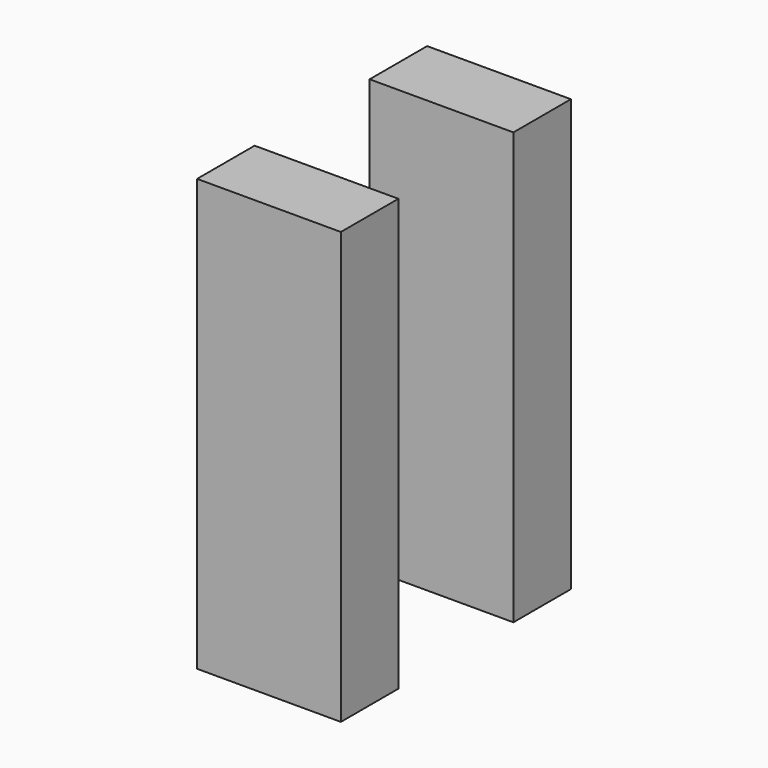
from build123d import *

# Parameters (mm, degrees)
F0_W     = 25.4
F0_H     = 76.2
F1_DEPTH = 50.8
F2_W     = 25.4
F2_H     = 76.2
F3_DEPTH = 25.401


with BuildPart() as f1:
    # F0 (on Front) → F1 (new body)
    with BuildSketch(Plane.XZ):
        with Locations((-12.7, 2.924849)):
            Rectangle(F0_W, F0_H)
    extrude(amount=F1_DEPTH)

    # F2 (on face) → F3 (cut, through all)
    with BuildSketch(Plane.YZ):
        with Locations((-25.4, 2.924849)):
            Rectangle(F2_W, F2_H)
    extrude(amount=-F3_DEPTH, mode=Mode.SUBTRACT)


solid = f1.part
